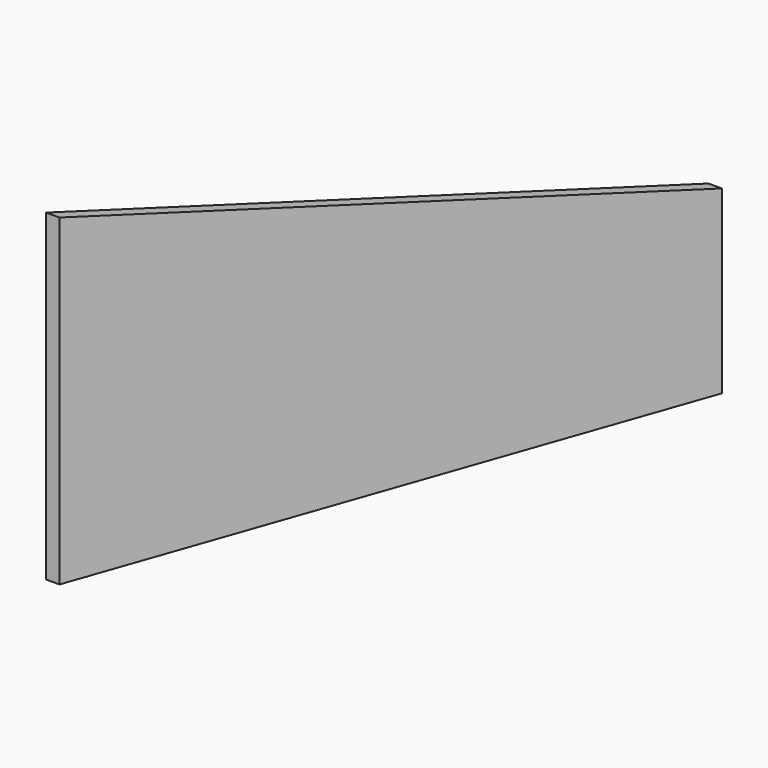
from build123d import *

# Parameters (mm, degrees)
F1_DEPTH = 127
F3_DEPTH = 50.8


with BuildPart() as f1:
    # F0 (on Right) → F1 (new body, symmetric)
    with BuildSketch(Plane.YZ):
        Polygon((155.7787731835, 25.0944288613), (25.4, 44.9478426982), (25.4, -44.9478426982), (155.7787731835, -25.0944288613), align=None)
    extrude(amount=F1_DEPTH, both=True)

    # F2 (on Top) → F3 (intersect, symmetric)
    with BuildSketch(Plane.XY):
        Polygon((178.8370349486, 291.338), (0, 0), (3.7254650514, 0), (182.5625, 291.338), align=None)
    extrude(amount=F3_DEPTH, both=True, mode=Mode.INTERSECT)


solid = f1.part
